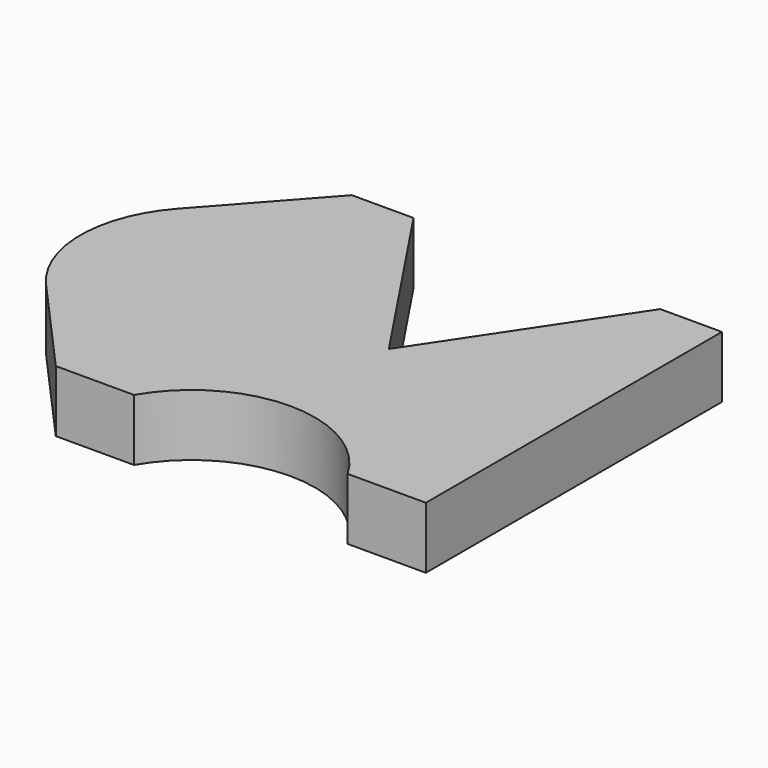
from build123d import *

# Parameters (mm, degrees)
F1_DEPTH = 10


with BuildPart() as f1:
    # F0 (on Top) → F1 (new body)
    with BuildSketch(Plane.XY):
        with BuildLine():
            Line((20, 30), (0, 0))
            Line((0, 0), (-20, 30))
            Line((-20, 30), (-30, 30))
            Line((-30, 30), (-44.90712, 13.333333))
            ThreePointArc((-44.90712, 13.333333), (-22.863558, 18.683447), (-10, 0))
            ThreePointArc((-10, 0), (-22.863558, -18.683447), (-44.90712, -13.333333))
            Line((-44.90712, -13.333333), (-30, -30))
            Line((-30, -30), (-17.320508, -30))
            ThreePointArc((-17.320508, -30), (0, -20), (17.320508, -30))
            Line((17.320508, -30), (30, -30))
            Line((30, -30), (30, 30))
            Line((30, 30), (20, 30))
        make_face()
        with BuildLine():
            ThreePointArc((-10, 0), (-22.863558, 18.683447), (-44.90712, 13.333333))
            ThreePointArc((-44.90712, 13.333333), (-50, 0), (-44.90712, -13.333333))
            ThreePointArc((-44.90712, -13.333333), (-22.863558, -18.683447), (-10, 0))
        make_face()
    extrude(amount=F1_DEPTH)


solid = f1.part
